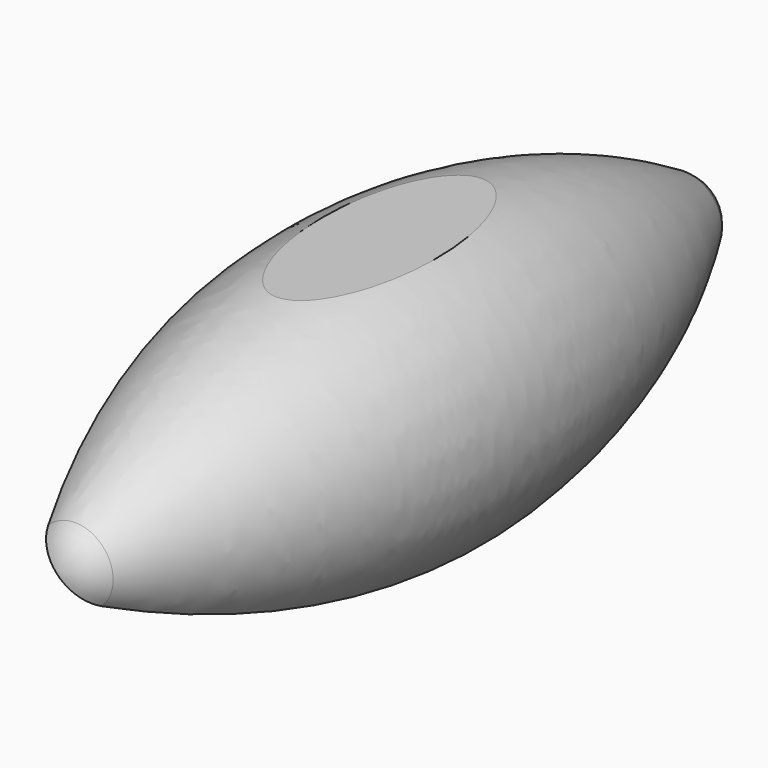
from build123d import *

# Parameters (mm, degrees)
F2_W     = 150
F2_H     = 10
F3_DEPTH = 50
F5_DEPTH = 203


with BuildPart() as f1:
    # F0 (on Right) → F1 (revolve)
    with BuildSketch(Plane.YZ):
        with BuildLine():
            ThreePointArc((-170.446234, 17.055093), (-177.448849, 9.774337), (-180, 0))
            Line((-180, 0), (180, 0))
            ThreePointArc((180, 0), (177.448849, 9.774337), (170.446234, 17.055093))
            ThreePointArc((170.446234, 17.055093), (0, 65.105742), (-170.446234, 17.055093))
        make_face()
    revolve(axis=Axis((0, 0, 0), (0, 1, 0)))

    # F2 (on Right) → F3 (cut, symmetric)
    with BuildSketch(Plane.YZ):
        with Locations((0, -65)):
            Rectangle(F2_W, F2_H)
        Polygon((75, 70), (-75, 70), (-75, 60), (0, 60), (75, 60), align=None)
    extrude(amount=F3_DEPTH, both=True, mode=Mode.SUBTRACT)

    # F4 (on Front) → F5 (cut, symmetric)
    with BuildSketch(Plane.XZ):
        Polygon((68.942911, -68.942911), (-68.942911, 68.942911), (-68.942911, -68.942911), align=None)
    extrude(amount=F5_DEPTH, both=True, mode=Mode.SUBTRACT)


solid = f1.part
